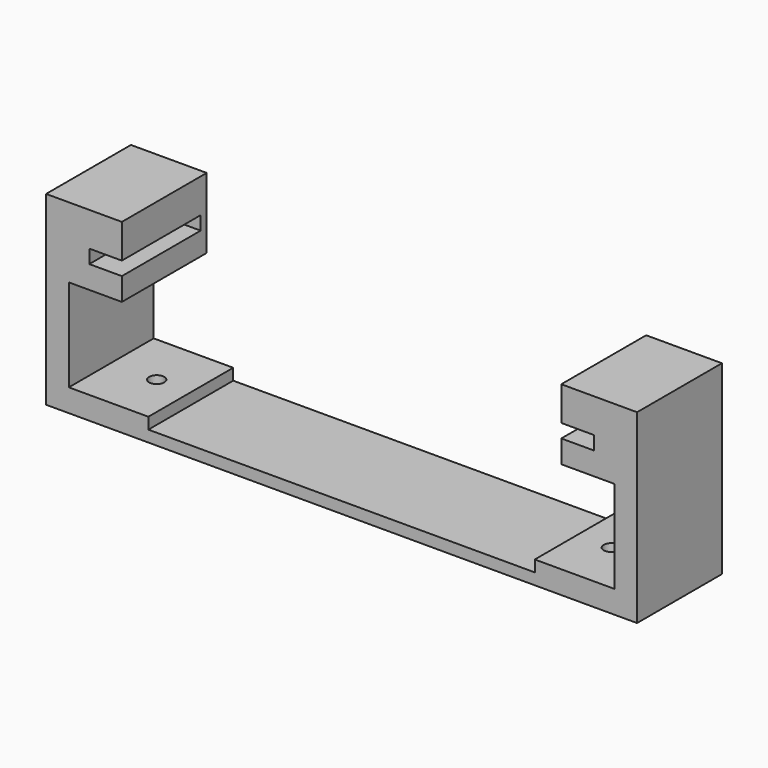
from build123d import *

# Parameters (mm, degrees)
PAD_DEPTH    = 14
SKETCH001_R  = 1
POCKET_DEPTH = 5
SKETCH002_W  = 5
SKETCH002_H  = 3
PAD001_DEPTH = 1


with BuildPart() as part:
    # Sketch → Pad (new body)
    with BuildSketch(Plane.XZ):
        Polygon((-33.3, 0), (-33.3, -1.8), (-29, -1.8), (-29, -4.8), (-36, -4.8), (-36, -17), (-25.5, -17), (-25.5, -18.5), (25.5, -18.5), (25.5, -17), (36, -17), (36, -4.8), (29, -4.8), (29, -1.8), (33.3, -1.8), (33.3, 0), (29, 0), (29, 4.5), (39, 4.5), (39, -20), (-39, -20), (-39, 4.5), (-29, 4.5), (-29, 0), align=None)
    extrude(amount=PAD_DEPTH)

    # Sketch001 (on Face21 of Pad) → Pocket (cut)
    with BuildSketch(Plane(origin=(0, 0, -20), x_dir=(1, 0, 0), z_dir=(0, 0, -1))):
        with Locations((-30, 7)):
            Circle(SKETCH001_R)
        with Locations((30, 7)):
            Circle(SKETCH001_R)
    extrude(amount=-POCKET_DEPTH, mode=Mode.SUBTRACT)

    # Sketch002 (on Face4 of Pocket) → Pad001 (join)
    with BuildSketch(Plane(origin=(0, 0, 0), x_dir=(1, 0, 0), z_dir=(0, 1, 0))):
        with Locations((-31.5, 1)):
            Rectangle(SKETCH002_W, SKETCH002_H)
        with Locations((31.5, 1)):
            Rectangle(SKETCH002_W, SKETCH002_H)
    extrude(amount=-PAD001_DEPTH)


solid = part.part
